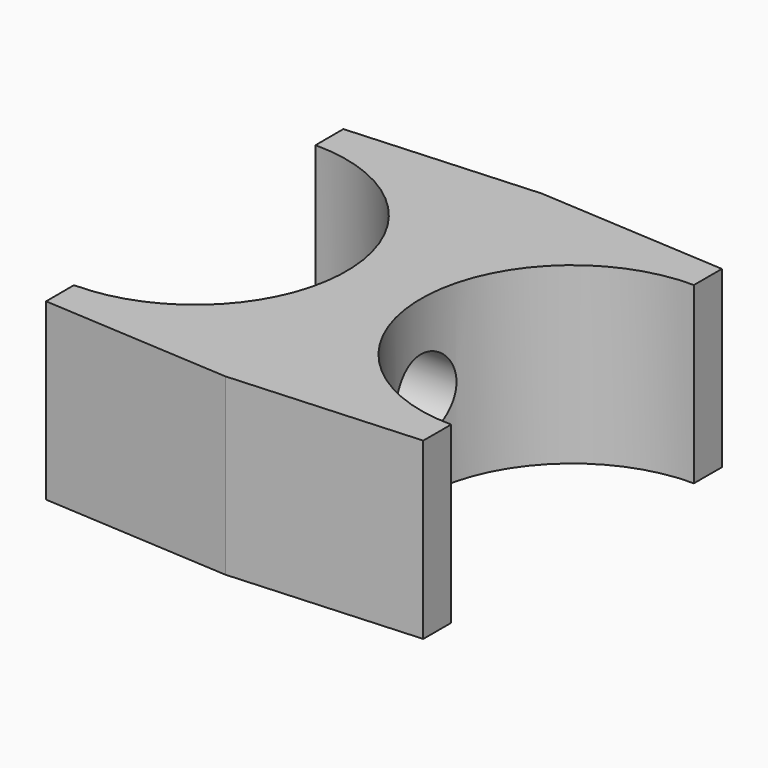
from build123d import *

# Parameters (mm, degrees)
F1_DEPTH = 7.5
F2_DEPTH = 12.5
F3_DEPTH = 12.5
F4_R     = 3.3
F4_R_2   = 3.05
F5_DEPTH = 25


with BuildPart() as f1:
    # F0 (on Top) → F1 (new body, symmetric)
    with BuildSketch(Plane.XY):
        with BuildLine():
            ThreePointArc((16.2, -16), (0.200029, 0.030397), (16.260794, 15.999885))
            Line((16.260794, 15.999885), (0, 17))
            Line((0, 17), (0, -17))
            Line((0, -17), (16.2, -16))
        make_face()
        with BuildLine():
            Line((16.255094, 12.999883), (16.260794, 15.999885))
            ThreePointArc((16.260794, 15.999885), (0.200029, 0.030397), (16.2, -16))
            Line((16.2, -16), (16.205699, -12.999999))
            ThreePointArc((16.205699, -12.999999), (3.200023, 0.024697), (16.255094, 12.999883))
        make_face()
        with BuildLine():
            Line((16.205699, -12.999999), (16.255094, 12.999883))
            ThreePointArc((16.255094, 12.999883), (3.200023, 0.024697), (16.205699, -12.999999))
        make_face()
        with BuildLine():
            Line((0, -17), (0, 17))
            Line((0, 17), (-16.260794, 15.999885))
            ThreePointArc((-16.260794, 15.999885), (-0.200029, 0.030397), (-16.2, -16))
            Line((-16.2, -16), (0, -17))
        make_face()
        with BuildLine():
            ThreePointArc((-16.2, -16), (-0.200029, 0.030397), (-16.260794, 15.999885))
            Line((-16.260794, 15.999885), (-16.255094, 12.999883))
            ThreePointArc((-16.255094, 12.999883), (-3.200023, 0.024697), (-16.205699, -12.999999))
            Line((-16.205699, -12.999999), (-16.2, -16))
        make_face()
        with BuildLine():
            ThreePointArc((-16.205699, -12.999999), (-3.200023, 0.024697), (-16.255094, 12.999883))
            Line((-16.255094, 12.999883), (-16.205699, -12.999999))
        make_face()
    extrude(amount=F1_DEPTH, both=True)

    # F0 (on Top) → F2 (cut, symmetric)
    with BuildSketch(Plane.XY):
        with BuildLine():
            ThreePointArc((-16.205699, -12.999999), (-3.200023, 0.024697), (-16.255094, 12.999883))
            Line((-16.255094, 12.999883), (-16.205699, -12.999999))
        make_face()
    extrude(amount=F2_DEPTH, both=True, mode=Mode.SUBTRACT)

    # F0 (on Top) → F3 (cut, symmetric)
    with BuildSketch(Plane.XY):
        with BuildLine():
            Line((16.205699, -12.999999), (16.255094, 12.999883))
            ThreePointArc((16.255094, 12.999883), (3.200023, 0.024697), (16.205699, -12.999999))
        make_face()
    extrude(amount=F3_DEPTH, both=True, mode=Mode.SUBTRACT)

    # F4 (on face) → F5 (cut)
    with BuildSketch(Plane(origin=(16.230338, -0.030835, 0), x_dir=(0.0019, 0.999998, 0), z_dir=(0.999998, -0.0019, 0))):
        Circle(F4_R)
        Circle(F4_R_2, mode=Mode.SUBTRACT)
        Circle(F4_R_2)
    extrude(amount=-F5_DEPTH, mode=Mode.SUBTRACT)


solid = f1.part
